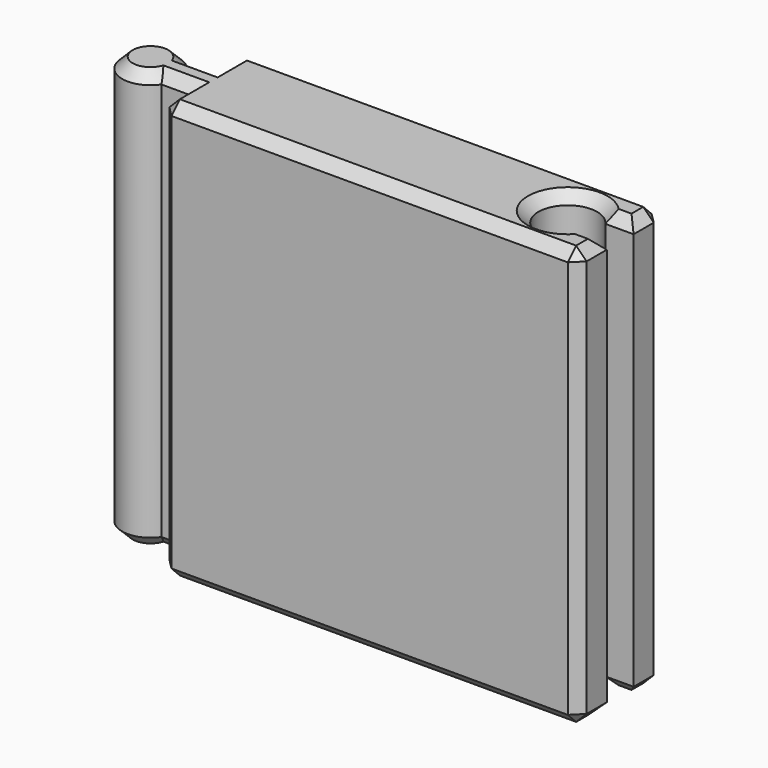
from build123d import *

# Parameters (mm, degrees)
F1_DEPTH = 20
F2_SIZE  = 0.5


with BuildPart() as f1:
    # F0 (on Top) → F1 (new body)
    with BuildSketch(Plane.XY):
        with BuildLine():
            Line((9.95, 2.5), (-9.95, 2.5))
            Line((-9.95, 2.5), (-9.95, 0.75))
            Line((-9.95, 0.75), (-9.95, 0))
            Line((-9.95, 0), (-9.95, -0.75))
            Line((-9.95, -0.75), (-9.95, -2.5))
            Line((-9.95, -2.5), (9.95, -2.5))
            Line((9.95, -2.5), (9.95, -0.8))
            Line((9.95, -0.8), (8.5989125293, -0.8))
            ThreePointArc((8.5989125293, -0.8), (6.05, 0), (8.5989125293, 0.8))
            Line((8.5989125293, 0.8), (9.95, 0.8))
            Line((9.95, 0.8), (9.95, 2.5))
        make_face()
        with BuildLine():
            Line((-9.95, 0), (-9.95, 0.75))
            Line((-9.95, 0.75), (-11.327502784, 0.75))
            ThreePointArc((-11.327502784, 0.75), (-11.158127088, 0.391872912), (-11.1, 0))
            Line((-11.1, 0), (-9.95, 0))
        make_face()
        with BuildLine():
            ThreePointArc((-11.327502784, -0.75), (-11.158127088, -0.391872912), (-11.1, 0))
            Line((-11.1, 0), (-12.45, 0))
            Line((-12.45, 0), (-12.45, -0.75))
            Line((-12.45, -0.75), (-11.327502784, -0.75))
        make_face()
        with BuildLine():
            Line((-9.95, -0.75), (-9.95, 0))
            Line((-9.95, 0), (-11.1, 0))
            ThreePointArc((-11.1, 0), (-11.158127088, -0.391872912), (-11.327502784, -0.75))
            Line((-11.327502784, -0.75), (-9.95, -0.75))
        make_face()
        with BuildLine():
            Line((-12.45, 0.75), (-11.327502784, 0.75))
            ThreePointArc((-11.327502784, 0.75), (-13.8, 0), (-11.327502784, -0.75))
            Line((-11.327502784, -0.75), (-12.45, -0.75))
            Line((-12.45, -0.75), (-12.45, 0))
            Line((-12.45, 0), (-12.45, 0.75))
        make_face()
        with BuildLine():
            ThreePointArc((-11.1, 0), (-11.158127088, 0.391872912), (-11.327502784, 0.75))
            Line((-11.327502784, 0.75), (-12.45, 0.75))
            Line((-12.45, 0.75), (-12.45, 0))
            Line((-12.45, 0), (-11.1, 0))
        make_face()
    extrude(amount=F1_DEPTH)

    # F2
    f2_edges = [f1.edges().sort_by_distance(p)[0] for p in [
        (0, -2.5, 20),
        (-9.95, -1.625, 20),
        (-10.638751, -0.75, 20),
        (-13.8, 0, 20),
        (-10.638751, 0.75, 20),
        (-9.95, 1.625, 20),
        (0, 2.5, 20),
        (9.95, 1.65, 20),
        (9.274456, 0.8, 20),
        (6.05, 0, 20),
        (9.274456, -0.8, 20),
        (9.95, -1.65, 20),
        (9.95, -2.5, 10),
        (9.95, 2.5, 10),
        (-9.95, -2.5, 10),
        (-9.95, 2.5, 10),
        (0, -2.5, 0),
        (9.95, -1.65, 0),
        (9.274456, -0.8, 0),
        (6.05, 0, 0),
        (9.274456, 0.8, 0),
        (9.95, 1.65, 0),
        (0, 2.5, 0),
        (-9.95, 1.625, 0),
        (-10.638751, 0.75, 0),
        (-10.638751, -0.75, 0),
        (-9.95, -1.625, 0),
        (-13.8, 0, 0),
    ]]
    chamfer(f2_edges, length=F2_SIZE)


solid = f1.part
